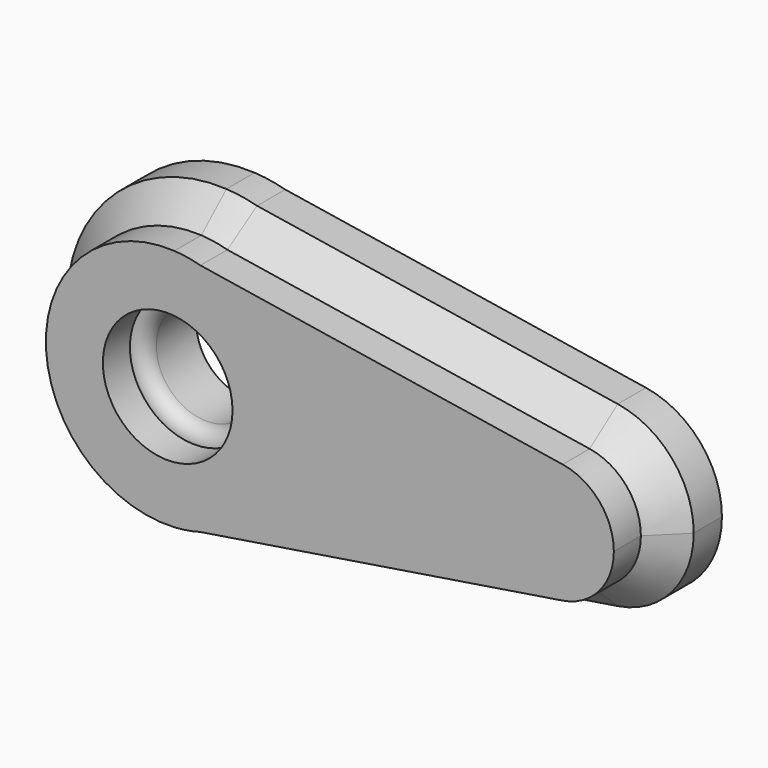
from build123d import *

# Parameters (mm, degrees)
F0_R     = 8.6726561419
F1_DEPTH = 11.176
F2_R     = 2.54
F3_SIZE  = 5.08
F4_DEPTH = 5.842


with BuildPart() as f1:
    # F0 (on Front) → F1 (new body)
    with BuildSketch(Plane.XZ):
        with BuildLine():
            ThreePointArc((-3.7094716517, 32.7638350621), (-6.3317193926, 33.3185695674), (-8.9969745918, 33.6019920596))
            Line((-8.9969745918, 33.6019920596), (-3.7094716517, 32.7638350621))
        make_face()
        with BuildLine():
            Line((-3.7094716517, -17.7854802654), (-8.9969745918, -18.6236372628))
            ThreePointArc((-8.9969745918, -18.6236372628), (-6.3317193926, -18.3402147707), (-3.7094716517, -17.7854802654))
        make_face()
        with BuildLine():
            Line((58.6809857184, 22.8739117825), (-3.7094716517, 32.7638350621))
            ThreePointArc((-3.7094716517, 32.7638350621), (10.3052007911, 23.4307705289), (15.7257861582, 7.4891773984))
            ThreePointArc((15.7257861582, 7.4891773984), (10.3052007911, -8.4524157321), (-3.7094716517, -17.7854802654))
            Line((-3.7094716517, -17.7854802654), (58.6809857184, -7.8955569857))
            ThreePointArc((58.6809857184, -7.8955569857), (40.6654246701, 7.4891773984), (58.6809857184, 22.8739117825))
        make_face()
        with BuildLine():
            ThreePointArc((71.819075142, 7.4891773984), (68.087612838, 17.6047525893), (58.6809857184, 22.8739117825))
            ThreePointArc((58.6809857184, 22.8739117825), (40.6654246701, 7.4891773984), (58.6809857184, -7.8955569857))
            ThreePointArc((58.6809857184, -7.8955569857), (68.087612838, -2.6263977925), (71.819075142, 7.4891773984))
        make_face()
        with BuildLine():
            Line((-3.7094716517, 32.7638350621), (-8.9969745918, 33.6019920596))
            ThreePointArc((-8.9969745918, 33.6019920596), (-36.5779998836, 7.4891773984), (-8.9969745918, -18.6236372628))
            Line((-8.9969745918, -18.6236372628), (-3.7094716517, -17.7854802654))
            ThreePointArc((-3.7094716517, -17.7854802654), (10.3052007911, -8.4524157321), (15.7257861582, 7.4891773984))
            ThreePointArc((15.7257861582, 7.4891773984), (10.3052007911, 23.4307705289), (-3.7094716517, 32.7638350621))
        make_face()
        with Locations((-10.4261068627, 7.4891773984)):
            Circle(F0_R, mode=Mode.SUBTRACT)
    extrude(amount=F1_DEPTH)

    # F2
    f2_edges = [f1.edges().sort_by_distance(p)[0] for p in [
        (-19.098763, -11.176, 7.489177),
    ]]
    fillet(f2_edges, radius=F2_R)

    # F3
    f3_edges = [f1.edges().sort_by_distance(p)[0] for p in [
        (27.485757, -11.176, -12.840519),
        (-21.638763, -11.176, 7.489177),
        (-36.578, -11.176, 7.489177),
        (71.819075, -11.176, 7.489177),
        (27.485757, -11.176, 27.818873),
    ]]
    chamfer(f3_edges, length=F3_SIZE)

    # F4 (add): a face of the model
    f4_faces = [f1.faces().sort_by_distance(p)[0] for p in [
        (16.1234060629, -11.176, 7.4891773984),
    ]]
    extrude(f4_faces, amount=F4_DEPTH)


solid = f1.part
